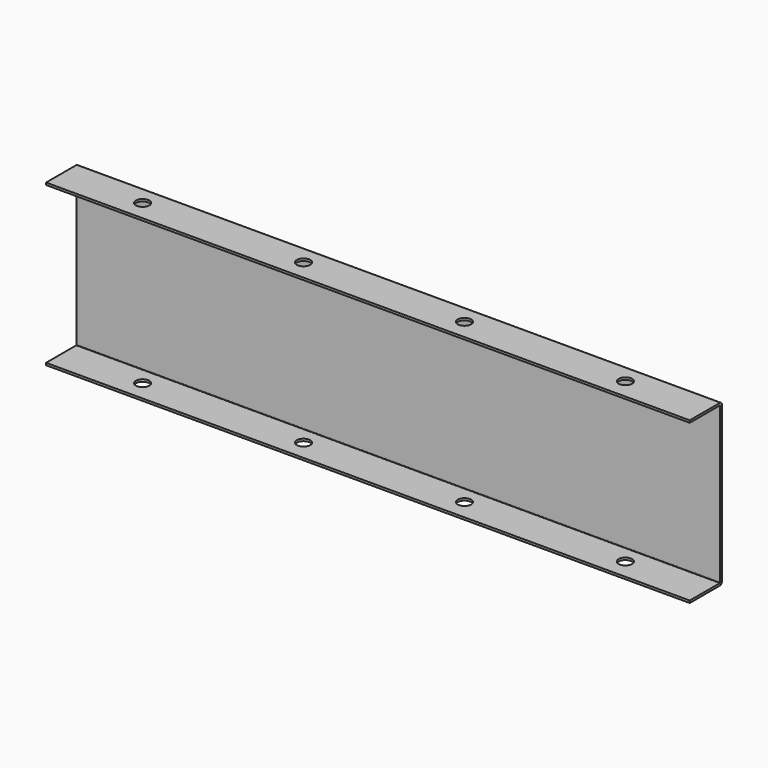
from build123d import *

# Parameters (mm, degrees)
F0_W     = 609.6
F0_H     = 38.1
F0_R     = 6.35
F1_DEPTH = 152.4
F2_R     = 2.54
F4_DEPTH = 609.6


with BuildPart() as f1:
    # F0 (on Top) → F1 (new body)
    with BuildSketch(Plane.XY):
        with Locations((228.6, 0)):
            Rectangle(F0_W, F0_H)
        Circle(F0_R, mode=Mode.SUBTRACT)
        with Locations((152.4, 0)):
            Circle(F0_R, mode=Mode.SUBTRACT)
        with Locations((304.8, 0)):
            Circle(F0_R, mode=Mode.SUBTRACT)
        with Locations((457.2, 0)):
            Circle(F0_R, mode=Mode.SUBTRACT)
    extrude(amount=-F1_DEPTH)

    # F2
    f2_edges = [f1.edges().sort_by_distance(p)[0] for p in [
        (228.6, 19.05, 0),
        (228.6, 19.05, -152.4),
    ]]
    fillet(f2_edges, radius=F2_R)

    # F3 (on face) → F4 (cut, through all)
    with BuildSketch(Plane(origin=(-76.2, 0, 0), x_dir=(0, -1, 0), z_dir=(-1, 0, 0))):
        with BuildLine():
            Line((-16.51, -150.282402), (19.05, -150.282402))
            Line((19.05, -150.282402), (19.05, -2.117598))
            Line((19.05, -2.117598), (-16.51, -2.117598))
            ThreePointArc((-16.51, -2.117598), (-16.808684, -2.241316), (-16.932402, -2.54))
            Line((-16.932402, -2.54), (-16.932402, -149.86))
            ThreePointArc((-16.932402, -149.86), (-16.808684, -150.158684), (-16.51, -150.282402))
        make_face()
    extrude(amount=-F4_DEPTH, mode=Mode.SUBTRACT)


solid = f1.part
